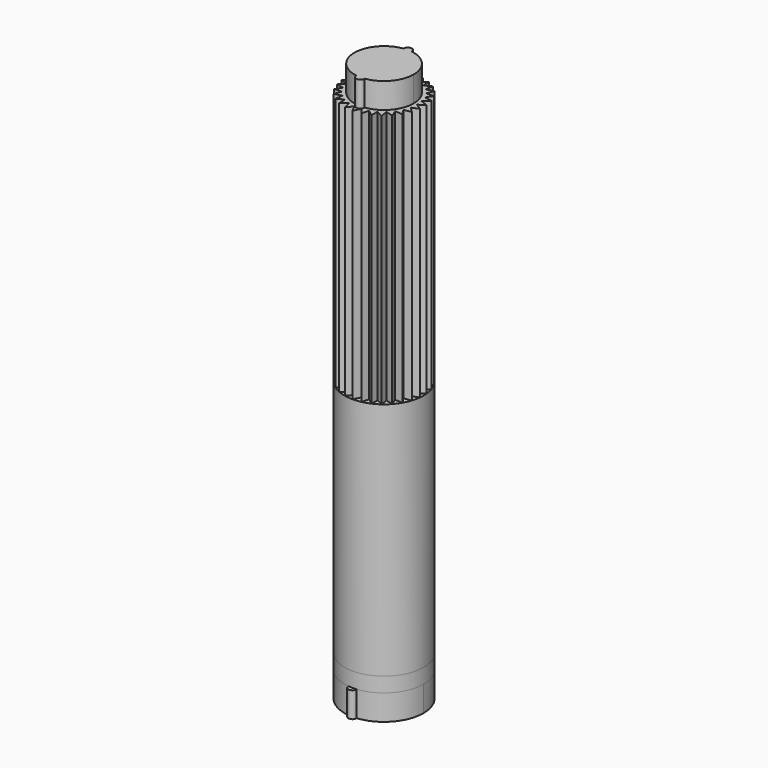
from build123d import *

# Parameters (mm, degrees)
F0_R      = 12
F1_DEPTH  = 72.75
F5_DEPTH  = 7.75
F7_DEPTH  = 77.25
F10_DEPTH = 7.75
F11_R     = 12
F12_DEPTH = 4.5


with BuildPart() as f1:
    # F0 (on Top) → F1 (new body)
    with BuildSketch(Plane.XY):
        Circle(F0_R)
    extrude(amount=F1_DEPTH)


with BuildPart() as f5:
    # F4 (on offset) → F5 (new body)
    with BuildSketch(Plane.XY.offset(150)):
        with BuildLine():
            ThreePointArc((1.2469822755, -8.9131944444), (6.7905390243, -5.9066555478), (9, 0))
            ThreePointArc((9, 0), (6.7905390243, 5.9066555478), (1.2469822755, 8.9131944444))
            ThreePointArc((1.2469822755, 8.9131944444), (0, 7.75), (-1.2469822755, 8.9131944444))
            ThreePointArc((-1.2469822755, 8.9131944444), (-9, 0), (-1.2469822755, -8.9131944444))
            ThreePointArc((-1.2469822755, -8.9131944444), (0, -7.75), (1.2469822755, -8.9131944444))
        make_face()
        with BuildLine():
            ThreePointArc((-1.2469822755, 8.9131944444), (0, 7.75), (1.2469822755, 8.9131944444))
            ThreePointArc((1.2469822755, 8.9131944444), (0, 9), (-1.2469822755, 8.9131944444))
        make_face()
        with BuildLine():
            ThreePointArc((-1.2469822755, 8.9131944444), (0, 9), (1.2469822755, 8.9131944444))
            ThreePointArc((1.2469822755, 8.9131944444), (1.2492453411, 8.956571003), (1.25, 9))
            ThreePointArc((1.25, 9), (-0.043428997, 10.2492453411), (-1.2469822755, 8.9131944444))
        make_face()
        with BuildLine():
            ThreePointArc((1.25, -9), (1.2492453411, -8.956571003), (1.2469822755, -8.9131944444))
            ThreePointArc((1.2469822755, -8.9131944444), (0, -9), (-1.2469822755, -8.9131944444))
            ThreePointArc((-1.2469822755, -8.9131944444), (-0.043428997, -10.2492453411), (1.25, -9))
        make_face()
        with BuildLine():
            ThreePointArc((-1.2469822755, -8.9131944444), (0, -9), (1.2469822755, -8.9131944444))
            ThreePointArc((1.2469822755, -8.9131944444), (0, -7.75), (-1.2469822755, -8.9131944444))
        make_face()
    extrude(amount=F5_DEPTH)

    # F6 (on offset) → F7 (join)
    with BuildSketch(Plane.XY.offset(150)):
        with BuildLine():
            ThreePointArc((9.9999950891, -0.0099105095), (9.9999987723, -0.0049552553), (10, 0))
            ThreePointArc((10, 0), (9.9999987723, 0.0049552553), (9.9999950891, 0.0099105095))
            ThreePointArc((9.9999950891, 0.0099105095), (9.9452189537, 1.0452846327), (9.7835317145, 2.0694219461))
            ThreePointArc((9.7835317145, 2.0694219461), (9.7814760073, 2.0791169082), (9.779410693, 2.0888098282))
            ThreePointArc((9.779410693, 2.0888098282), (9.510565163, 3.0901699437), (9.1394810574, 4.0583107324))
            ThreePointArc((9.1394810574, 4.0583107324), (9.1354545764, 4.0673664308), (9.1314191227, 4.0764181342))
            ThreePointArc((9.1314191227, 4.0764181342), (8.6602540378, 5), (8.0959912221, 5.8698318658))
            ThreePointArc((8.0959912221, 5.8698318658), (8.0901699437, 5.8778525229), (8.0843407194, 5.885867407))
            ThreePointArc((8.0843407194, 5.885867407), (7.4314482548, 6.6913060636), (6.6986677214, 7.42481318))
            ThreePointArc((6.6986677214, 7.42481318), (6.6913060636, 7.4314482548), (6.6839378337, 7.4380760305))
            ThreePointArc((6.6839378337, 7.4380760305), (5.8778525229, 8.0901699437), (5.0085802975, 8.6552945301))
            ThreePointArc((5.0085802975, 8.6552945301), (5, 8.6602540378), (4.9914147916, 8.6652050396))
            ThreePointArc((4.9914147916, 8.6652050396), (4.0673664308, 9.1354545764), (3.0995938808, 9.5074979765))
            ThreePointArc((3.0995938808, 9.5074979765), (3.0901699437, 9.510565163), (3.0807429716, 9.5136230082))
            ThreePointArc((3.0807429716, 9.5136230082), (2.0791169082, 9.7814760073), (1.055140338, 9.9441781393))
            ThreePointArc((1.055140338, 9.9441781393), (1.0452846327, 9.9452189537), (1.0354279007, 9.94625))
            ThreePointArc((1.0354279007, 9.94625), (0, 10), (-1.0354279007, 9.94625))
            ThreePointArc((-1.0354279007, 9.94625), (-1.0452846327, 9.9452189537), (-1.055140338, 9.9441781393))
            ThreePointArc((-1.055140338, 9.9441781393), (-2.0791169082, 9.7814760073), (-3.0807429716, 9.5136230082))
            ThreePointArc((-3.0807429716, 9.5136230082), (-3.0901699437, 9.510565163), (-3.0995938808, 9.5074979765))
            ThreePointArc((-3.0995938808, 9.5074979765), (-4.0673664308, 9.1354545764), (-4.9914147916, 8.6652050396))
            ThreePointArc((-4.9914147916, 8.6652050396), (-5, 8.6602540378), (-5.0085802975, 8.6552945301))
            ThreePointArc((-5.0085802975, 8.6552945301), (-5.8778525229, 8.0901699437), (-6.6839378337, 7.4380760305))
            ThreePointArc((-6.6839378337, 7.4380760305), (-6.6913060636, 7.4314482548), (-6.6986677214, 7.42481318))
            ThreePointArc((-6.6986677214, 7.42481318), (-7.4314482548, 6.6913060636), (-8.0843407194, 5.885867407))
            ThreePointArc((-8.0843407194, 5.885867407), (-8.0901699437, 5.8778525229), (-8.0959912221, 5.8698318658))
            ThreePointArc((-8.0959912221, 5.8698318658), (-8.6602540378, 5), (-9.1314191227, 4.0764181342))
            ThreePointArc((-9.1314191227, 4.0764181342), (-9.1354545764, 4.0673664308), (-9.1394810574, 4.0583107324))
            ThreePointArc((-9.1394810574, 4.0583107324), (-9.510565163, 3.0901699437), (-9.779410693, 2.0888098282))
            ThreePointArc((-9.779410693, 2.0888098282), (-9.7814760073, 2.0791169082), (-9.7835317145, 2.0694219461))
            ThreePointArc((-9.7835317145, 2.0694219461), (-9.9452189537, 1.0452846327), (-9.9999950891, 0.0099105095))
            ThreePointArc((-9.9999950891, 0.0099105095), (-10, 0), (-9.9999950891, -0.0099105095))
            ThreePointArc((-9.9999950891, -0.0099105095), (-9.9452189537, -1.0452846327), (-9.7835317145, -2.0694219461))
            ThreePointArc((-9.7835317145, -2.0694219461), (-9.7814760073, -2.0791169082), (-9.779410693, -2.0888098282))
            ThreePointArc((-9.779410693, -2.0888098282), (-9.510565163, -3.0901699437), (-9.1394810574, -4.0583107324))
            ThreePointArc((-9.1394810574, -4.0583107324), (-9.1354545764, -4.0673664308), (-9.1314191227, -4.0764181342))
            ThreePointArc((-9.1314191227, -4.0764181342), (-8.6602540378, -5), (-8.0959912221, -5.8698318658))
            ThreePointArc((-8.0959912221, -5.8698318658), (-8.0901699437, -5.8778525229), (-8.0843407194, -5.885867407))
            ThreePointArc((-8.0843407194, -5.885867407), (-7.4314482548, -6.6913060636), (-6.6986677214, -7.42481318))
            ThreePointArc((-6.6986677214, -7.42481318), (-6.6913060636, -7.4314482548), (-6.6839378337, -7.4380760305))
            ThreePointArc((-6.6839378337, -7.4380760305), (-5.8778525229, -8.0901699437), (-5.0085802975, -8.6552945301))
            ThreePointArc((-5.0085802975, -8.6552945301), (-5, -8.6602540378), (-4.9914147916, -8.6652050396))
            ThreePointArc((-4.9914147916, -8.6652050396), (-4.0673664308, -9.1354545764), (-3.0995938808, -9.5074979765))
            ThreePointArc((-3.0995938808, -9.5074979765), (-3.0901699437, -9.510565163), (-3.0807429716, -9.5136230082))
            ThreePointArc((-3.0807429716, -9.5136230082), (-2.0791169082, -9.7814760073), (-1.055140338, -9.9441781393))
            ThreePointArc((-1.055140338, -9.9441781393), (-1.0452846327, -9.9452189537), (-1.0354279007, -9.94625))
            ThreePointArc((-1.0354279007, -9.94625), (0, -10), (1.0354279007, -9.94625))
            ThreePointArc((1.0354279007, -9.94625), (1.0452846327, -9.9452189537), (1.055140338, -9.9441781393))
            ThreePointArc((1.055140338, -9.9441781393), (2.0791169082, -9.7814760073), (3.0807429716, -9.5136230082))
            ThreePointArc((3.0807429716, -9.5136230082), (3.0901699437, -9.510565163), (3.0995938808, -9.5074979765))
            ThreePointArc((3.0995938808, -9.5074979765), (4.0673664308, -9.1354545764), (4.9914147916, -8.6652050396))
            ThreePointArc((4.9914147916, -8.6652050396), (5, -8.6602540378), (5.0085802975, -8.6552945301))
            ThreePointArc((5.0085802975, -8.6552945301), (5.8778525229, -8.0901699437), (6.6839378337, -7.4380760305))
            ThreePointArc((6.6839378337, -7.4380760305), (6.6913060636, -7.4314482548), (6.6986677214, -7.42481318))
            ThreePointArc((6.6986677214, -7.42481318), (7.4314482548, -6.6913060636), (8.0843407194, -5.885867407))
            ThreePointArc((8.0843407194, -5.885867407), (8.0901699437, -5.8778525229), (8.0959912221, -5.8698318658))
            ThreePointArc((8.0959912221, -5.8698318658), (8.6602540378, -5), (9.1314191227, -4.0764181342))
            ThreePointArc((9.1314191227, -4.0764181342), (9.1354545764, -4.0673664308), (9.1394810574, -4.0583107324))
            ThreePointArc((9.1394810574, -4.0583107324), (9.510565163, -3.0901699437), (9.779410693, -2.0888098282))
            ThreePointArc((9.779410693, -2.0888098282), (9.7814760073, -2.0791169082), (9.7835317145, -2.0694219461))
            ThreePointArc((9.7835317145, -2.0694219461), (9.9452189537, -1.0452846327), (9.9999950891, -0.0099105095))
        make_face()
        with BuildLine():
            ThreePointArc((9.7835317145, 2.0694219461), (9.9452189537, 1.0452846327), (9.9999950891, 0.0099105095))
            Line((9.9999950891, 0.0099105095), (11.9342627444, 1.2543415592))
            Line((11.9342627444, 1.2543415592), (9.7835317145, 2.0694219461))
        make_face()
        with BuildLine():
            Line((11.9342627444, -1.2543415592), (9.9999950891, -0.0099105095))
            ThreePointArc((9.9999950891, -0.0099105095), (9.9452189537, -1.0452846327), (9.7835317145, -2.0694219461))
            Line((9.7835317145, -2.0694219461), (11.9342627444, -1.2543415592))
        make_face()
        with BuildLine():
            ThreePointArc((9.1394810574, 4.0583107324), (9.510565163, 3.0901699437), (9.779410693, 2.0888098282))
            Line((9.779410693, 2.0888098282), (11.4126781955, 3.7082039325))
            Line((11.4126781955, 3.7082039325), (9.1394810574, 4.0583107324))
        make_face()
        with BuildLine():
            Line((11.4126781955, -3.7082039325), (9.779410693, -2.0888098282))
            ThreePointArc((9.779410693, -2.0888098282), (9.510565163, -3.0901699437), (9.1394810574, -4.0583107324))
            Line((9.1394810574, -4.0583107324), (11.4126781955, -3.7082039325))
        make_face()
        with BuildLine():
            ThreePointArc((8.0959912221, 5.8698318658), (8.6602540378, 5), (9.1314191227, 4.0764181342))
            Line((9.1314191227, 4.0764181342), (10.3923048454, 6))
            Line((10.3923048454, 6), (8.0959912221, 5.8698318658))
        make_face()
        with BuildLine():
            Line((10.3923048454, -6), (9.1314191227, -4.0764181342))
            ThreePointArc((9.1314191227, -4.0764181342), (8.6602540378, -5), (8.0959912221, -5.8698318658))
            Line((8.0959912221, -5.8698318658), (10.3923048454, -6))
        make_face()
        with BuildLine():
            ThreePointArc((6.6986677214, 7.42481318), (7.4314482548, 6.6913060636), (8.0843407194, 5.885867407))
            Line((8.0843407194, 5.885867407), (8.9177379057, 8.0295672763))
            Line((8.9177379057, 8.0295672763), (6.6986677214, 7.42481318))
        make_face()
        with BuildLine():
            Line((8.9177379057, -8.0295672763), (8.0843407194, -5.885867407))
            ThreePointArc((8.0843407194, -5.885867407), (7.4314482548, -6.6913060636), (6.6986677214, -7.42481318))
            Line((6.6986677214, -7.42481318), (8.9177379057, -8.0295672763))
        make_face()
        with BuildLine():
            ThreePointArc((5.0085802975, 8.6552945301), (5.8778525229, 8.0901699437), (6.6839378337, 7.4380760305))
            Line((6.6839378337, 7.4380760305), (7.0534230275, 9.7082039325))
            Line((7.0534230275, 9.7082039325), (5.0085802975, 8.6552945301))
        make_face()
        with BuildLine():
            Line((7.0534230275, -9.7082039325), (6.6839378337, -7.4380760305))
            ThreePointArc((6.6839378337, -7.4380760305), (5.8778525229, -8.0901699437), (5.0085802975, -8.6552945301))
            Line((5.0085802975, -8.6552945301), (7.0534230275, -9.7082039325))
        make_face()
        with BuildLine():
            ThreePointArc((3.0995938808, 9.5074979765), (4.0673664308, 9.1354545764), (4.9914147916, 8.6652050396))
            Line((4.9914147916, 8.6652050396), (4.8808397169, 10.9625454917))
            Line((4.8808397169, 10.9625454917), (3.0995938808, 9.5074979765))
        make_face()
        with BuildLine():
            Line((4.8808397169, -10.9625454917), (4.9914147916, -8.6652050396))
            ThreePointArc((4.9914147916, -8.6652050396), (4.0673664308, -9.1354545764), (3.0995938808, -9.5074979765))
            Line((3.0995938808, -9.5074979765), (4.8808397169, -10.9625454917))
        make_face()
        with BuildLine():
            ThreePointArc((1.055140338, 9.9441781393), (2.0791169082, 9.7814760073), (3.0807429716, 9.5136230082))
            Line((3.0807429716, 9.5136230082), (2.4949402898, 11.7377712088))
            Line((2.4949402898, 11.7377712088), (1.055140338, 9.9441781393))
        make_face()
        with BuildLine():
            Line((2.4949402898, -11.7377712088), (3.0807429716, -9.5136230082))
            ThreePointArc((3.0807429716, -9.5136230082), (2.0791169082, -9.7814760073), (1.055140338, -9.9441781393))
            Line((1.055140338, -9.9441781393), (2.4949402898, -11.7377712088))
        make_face()
        with BuildLine():
            ThreePointArc((-1.0354279007, 9.94625), (0, 10), (1.0354279007, 9.94625))
            Line((1.0354279007, 9.94625), (0, 12))
            Line((0, 12), (-1.0354279007, 9.94625))
        make_face()
        with BuildLine():
            Line((0, -12), (1.0354279007, -9.94625))
            ThreePointArc((1.0354279007, -9.94625), (0, -10), (-1.0354279007, -9.94625))
            Line((-1.0354279007, -9.94625), (0, -12))
        make_face()
        with BuildLine():
            ThreePointArc((-3.0807429716, 9.5136230082), (-2.0791169082, 9.7814760073), (-1.055140338, 9.9441781393))
            Line((-1.055140338, 9.9441781393), (-2.4949402898, 11.7377712088))
            Line((-2.4949402898, 11.7377712088), (-3.0807429716, 9.5136230082))
        make_face()
        with BuildLine():
            Line((-2.4949402898, -11.7377712088), (-1.055140338, -9.9441781393))
            ThreePointArc((-1.055140338, -9.9441781393), (-2.0791169082, -9.7814760073), (-3.0807429716, -9.5136230082))
            Line((-3.0807429716, -9.5136230082), (-2.4949402898, -11.7377712088))
        make_face()
        with BuildLine():
            ThreePointArc((-4.9914147916, 8.6652050396), (-4.0673664308, 9.1354545764), (-3.0995938808, 9.5074979765))
            Line((-3.0995938808, 9.5074979765), (-4.8808397169, 10.9625454917))
            Line((-4.8808397169, 10.9625454917), (-4.9914147916, 8.6652050396))
        make_face()
        with BuildLine():
            Line((-4.8808397169, -10.9625454917), (-3.0995938808, -9.5074979765))
            ThreePointArc((-3.0995938808, -9.5074979765), (-4.0673664308, -9.1354545764), (-4.9914147916, -8.6652050396))
            Line((-4.9914147916, -8.6652050396), (-4.8808397169, -10.9625454917))
        make_face()
        with BuildLine():
            ThreePointArc((-6.6839378337, 7.4380760305), (-5.8778525229, 8.0901699437), (-5.0085802975, 8.6552945301))
            Line((-5.0085802975, 8.6552945301), (-7.0534230275, 9.7082039325))
            Line((-7.0534230275, 9.7082039325), (-6.6839378337, 7.4380760305))
        make_face()
        with BuildLine():
            Line((-7.0534230275, -9.7082039325), (-5.0085802975, -8.6552945301))
            ThreePointArc((-5.0085802975, -8.6552945301), (-5.8778525229, -8.0901699437), (-6.6839378337, -7.4380760305))
            Line((-6.6839378337, -7.4380760305), (-7.0534230275, -9.7082039325))
        make_face()
        with BuildLine():
            ThreePointArc((-8.0843407194, 5.885867407), (-7.4314482548, 6.6913060636), (-6.6986677214, 7.42481318))
            Line((-6.6986677214, 7.42481318), (-8.9177379057, 8.0295672763))
            Line((-8.9177379057, 8.0295672763), (-8.0843407194, 5.885867407))
        make_face()
        with BuildLine():
            Line((-8.9177379057, -8.0295672763), (-6.6986677214, -7.42481318))
            ThreePointArc((-6.6986677214, -7.42481318), (-7.4314482548, -6.6913060636), (-8.0843407194, -5.885867407))
            Line((-8.0843407194, -5.885867407), (-8.9177379057, -8.0295672763))
        make_face()
        with BuildLine():
            ThreePointArc((-9.1314191227, 4.0764181342), (-8.6602540378, 5), (-8.0959912221, 5.8698318658))
            Line((-8.0959912221, 5.8698318658), (-10.3923048454, 6))
            Line((-10.3923048454, 6), (-9.1314191227, 4.0764181342))
        make_face()
        with BuildLine():
            Line((-10.3923048454, -6), (-8.0959912221, -5.8698318658))
            ThreePointArc((-8.0959912221, -5.8698318658), (-8.6602540378, -5), (-9.1314191227, -4.0764181342))
            Line((-9.1314191227, -4.0764181342), (-10.3923048454, -6))
        make_face()
        with BuildLine():
            ThreePointArc((-9.779410693, 2.0888098282), (-9.510565163, 3.0901699437), (-9.1394810574, 4.0583107324))
            Line((-9.1394810574, 4.0583107324), (-11.4126781955, 3.7082039325))
            Line((-11.4126781955, 3.7082039325), (-9.779410693, 2.0888098282))
        make_face()
        with BuildLine():
            Line((-11.4126781955, -3.7082039325), (-9.1394810574, -4.0583107324))
            ThreePointArc((-9.1394810574, -4.0583107324), (-9.510565163, -3.0901699437), (-9.779410693, -2.0888098282))
            Line((-9.779410693, -2.0888098282), (-11.4126781955, -3.7082039325))
        make_face()
        with BuildLine():
            ThreePointArc((-9.9999950891, 0.0099105095), (-9.9452189537, 1.0452846327), (-9.7835317145, 2.0694219461))
            Line((-9.7835317145, 2.0694219461), (-11.9342627444, 1.2543415592))
            Line((-11.9342627444, 1.2543415592), (-9.9999950891, 0.0099105095))
        make_face()
        with BuildLine():
            Line((-11.9342627444, -1.2543415592), (-9.7835317145, -2.0694219461))
            ThreePointArc((-9.7835317145, -2.0694219461), (-9.9452189537, -1.0452846327), (-9.9999950891, -0.0099105095))
            Line((-9.9999950891, -0.0099105095), (-11.9342627444, -1.2543415592))
        make_face()
    extrude(amount=-F7_DEPTH)


with BuildPart() as f10:
    # F9 (on offset) → F10 (new body)
    with BuildSketch(Plane.XY.offset(-4.5)):
        with BuildLine():
            ThreePointArc((1.2483034277, -11.9348958333), (8.9157063975, -8.031822921), (12, 0))
            ThreePointArc((12, 0), (8.9157063975, 8.031822921), (1.2483034277, 11.9348958333))
            ThreePointArc((1.2483034276, 11.9348958333), (0, 10.75), (-1.2483034276, 11.9348958333))
            ThreePointArc((-1.2483034277, 11.9348958333), (-12, 0), (-1.2483034277, -11.9348958333))
            ThreePointArc((-1.2483034276, -11.9348958333), (0, -10.75), (1.2483034276, -11.9348958333))
        make_face()
        with BuildLine():
            ThreePointArc((-1.2483034276, 11.9348958333), (0, 10.75), (1.2483034276, 11.9348958333))
            ThreePointArc((1.2483034277, 11.9348958333), (0, 12), (-1.2483034277, 11.9348958333))
        make_face()
        with BuildLine():
            ThreePointArc((-1.2483034277, 11.9348958333), (0, 12), (1.2483034277, 11.9348958333))
            ThreePointArc((1.2483034276, 11.9348958333), (1.2495757849, 11.9674368656), (1.25, 12))
            ThreePointArc((1.25, 12), (-0.0325631344, 13.2495757849), (-1.2483034276, 11.9348958333))
        make_face()
        with BuildLine():
            ThreePointArc((1.25, -12), (1.2495757849, -11.9674368656), (1.2483034276, -11.9348958333))
            ThreePointArc((1.2483034277, -11.9348958333), (0, -12), (-1.2483034277, -11.9348958333))
            ThreePointArc((-1.2483034276, -11.9348958333), (-0.0325631344, -13.2495757849), (1.25, -12))
        make_face()
        with BuildLine():
            ThreePointArc((-1.2483034277, -11.9348958333), (0, -12), (1.2483034277, -11.9348958333))
            ThreePointArc((1.2483034276, -11.9348958333), (0, -10.75), (-1.2483034276, -11.9348958333))
        make_face()
    extrude(amount=-F10_DEPTH)


with BuildPart() as f12:
    # F11 (on offset) → F12 (new body)
    with BuildSketch(Plane.XY.offset(-4.5)):
        Circle(F11_R)
    extrude(amount=F12_DEPTH)


solid = Compound([f1.part, f5.part, f10.part, f12.part])
